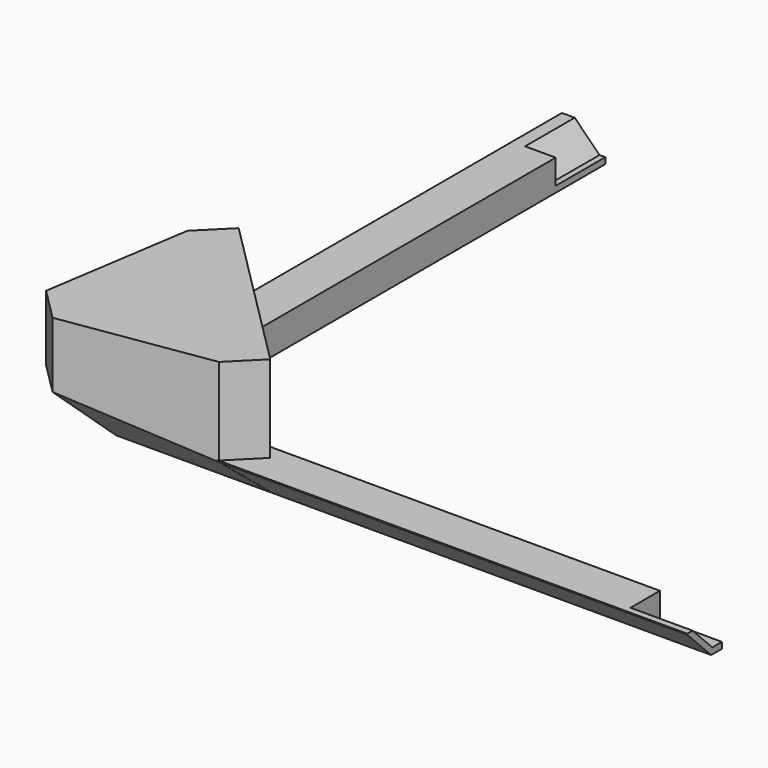
from build123d import *

# Parameters (mm, degrees)
BOX008002003_W               = 32
BOX008002003_H               = 60
BOX008002003_DEPTH           = 19
BOX008002003_PLACEMENT_ANGLE = 45
BOX002_W                     = 10
BOX002_H                     = 10
BOX002_DEPTH                 = 10
CHAMFER002_SIZE              = 5
BOX_W                        = 103
BOX_H                        = 7
BOX_DEPTH                    = 5
CHAMFER_SIZE                 = 4.84
BOX004_W                     = 40
BOX004_H                     = 25
BOX004_DEPTH                 = 55
BOX004_ROLL_ANGLE            = 20
BOX004_PLACEMENT_ANGLE       = -45
BOX003_W                     = 10
BOX003_H                     = 10
BOX003_DEPTH                 = 10
CHAMFER003_SIZE              = 5
BOX001_W                     = 7
BOX001_H                     = 103
BOX001_DEPTH                 = 5
CHAMFER001_SIZE              = 4.84
BOX007_W                     = 36
BOX007_H                     = 26
BOX007_DEPTH                 = 19
BOX007_PLACEMENT_ANGLE       = 315
CHAMFER004_SIZE              = 14.3
CHAMFER004002_SIZE           = 8.45
CHAMFER004003_1_SIZE2        = 20.2
CHAMFER004003_1_SIZE         = 5.2
CHAMFER004003_2_SIZE2        = 20.2
CHAMFER004003_2_SIZE         = 5.2


with BuildPart() as cube010:
    # Box008002003 → Box008002003 (new body)
    with BuildSketch(Plane.XY):
        with Locations((16, 30)):
            Rectangle(BOX008002003_W, BOX008002003_H)
    extrude(amount=BOX008002003_DEPTH)


with BuildPart() as cube010_1:
    # Box008002003 placement: moved
    add(cube010.part.moved(Location((-93.509515, -135.935922, 0))).rotate(Axis((-93.509515, -135.935922, 0), (0, 0, 1)), BOX008002003_PLACEMENT_ANGLE))


with BuildPart() as chamfer002:
    # Box002 → Box002 (new body)
    with BuildSketch(Plane(origin=(-10, -80, 0), x_dir=(1, 0, 0), z_dir=(0, 0, 1))):
        with Locations((5, 5)):
            Rectangle(BOX002_W, BOX002_H)
    extrude(amount=BOX002_DEPTH)

    # Chamfer002
    chamfer002_edges = [chamfer002.edges().sort_by_distance(p)[0] for p in [
        (-5, -80, 0),
    ]]
    chamfer(chamfer002_edges, length=CHAMFER002_SIZE)


with BuildPart() as chamfer002_1:
    # Chamfer002 placement: moved
    add(chamfer002.part.moved(Location((0, -21, 1))))


with BuildPart() as cut:
    # Box → Box (new body)
    with BuildSketch(Plane(origin=(-103, -103, 0), x_dir=(1, 0, 0), z_dir=(0, 0, 1))):
        with Locations((51.5, 3.5)):
            Rectangle(BOX_W, BOX_H)
    extrude(amount=BOX_DEPTH)

    # Chamfer
    chamfer_edges = [cut.edges().sort_by_distance(p)[0] for p in [
        (-51.5, -103, 0),
    ]]
    chamfer(chamfer_edges, length=CHAMFER_SIZE)


with BuildPart() as cut_1:
    # Chamfer placement: moved
    add(cut.part.moved(Location((0, 1.93, 0))))

    # Cut: cut Chamfer002
    add(chamfer002_1.part, mode=Mode.SUBTRACT)


with BuildPart() as box004:
    # Box004 → Box004 (new body)
    with BuildSketch(Plane.XY):
        with Locations((20, 12.5)):
            Rectangle(BOX004_W, BOX004_H)
    extrude(amount=BOX004_DEPTH)


with BuildPart() as box004_1:
    # Box004 roll: moved
    add(box004.part.rotate(Axis((0, 0, 0), (1, 0, 0)), BOX004_ROLL_ANGLE))


with BuildPart() as box004_2:
    # Box004 placement: moved
    add(box004_1.part.moved(Location((-125.987533, -98.117475, -15.593468))).rotate(Axis((-125.987533, -98.117475, -15.593468), (0, 0, 1)), BOX004_PLACEMENT_ANGLE))


with BuildPart() as chamfer003:
    # Box003 → Box003 (new body)
    with BuildSketch(Plane(origin=(-82, -10, 0), x_dir=(1, 0, 0), z_dir=(0, 0, 1))):
        with Locations((5, 5)):
            Rectangle(BOX003_W, BOX003_H)
    extrude(amount=BOX003_DEPTH)

    # Chamfer003
    chamfer003_edges = [chamfer003.edges().sort_by_distance(p)[0] for p in [
        (-82, -5, 0),
    ]]
    chamfer(chamfer003_edges, length=CHAMFER003_SIZE)


with BuildPart() as chamfer003_1:
    # Chamfer003 placement: moved
    add(chamfer003.part.moved(Location((-18, 0, 1))))


with BuildPart() as cut004:
    # Box001 → Box001 (new body)
    with BuildSketch(Plane(origin=(-103, -103, 0), x_dir=(1, 0, 0), z_dir=(0, 0, 1))):
        with Locations((3.5, 51.5)):
            Rectangle(BOX001_W, BOX001_H)
    extrude(amount=BOX001_DEPTH)

    # Chamfer001
    chamfer001_edges = [cut004.edges().sort_by_distance(p)[0] for p in [
        (-103, -51.5, 0),
    ]]
    chamfer(chamfer001_edges, length=CHAMFER001_SIZE)


with BuildPart() as cut004_1:
    # Chamfer001 placement: moved
    add(cut004.part.moved(Location((1.93, 0, 0))))

    # Cut001: cut Chamfer003
    add(chamfer003_1.part, mode=Mode.SUBTRACT)

    # Cut003: cut Box004
    add(box004_2.part, mode=Mode.SUBTRACT)

    # Fusion: union Cut
    add(cut_1.part)

    # Cut004: cut Cube010
    add(cube010_1.part, mode=Mode.SUBTRACT)


with BuildPart() as fusion001:
    # Box007 → Box007 (new body)
    with BuildSketch(Plane.XY):
        with Locations((18, 13)):
            Rectangle(BOX007_W, BOX007_H)
    extrude(amount=BOX007_DEPTH)


with BuildPart() as fusion001_1:
    # Box007 placement: moved
    add(fusion001.part.moved(Location((-114.814642, -89.358798, 0))).rotate(Axis((-114.814642, -89.358798, 0), (0, 0, 1)), BOX007_PLACEMENT_ANGLE))

    # Chamfer004
    chamfer004_edges = [fusion001_1.edges().sort_by_distance(p)[0] for p in [
        (-114.814642, -89.358798, 9.5),
        (-89.358798, -114.814642, 9.5),
    ]]
    chamfer(chamfer004_edges, length=CHAMFER004_SIZE)

    # Chamfer004002
    chamfer004002_edges = [fusion001_1.edges().sort_by_distance(p)[0] for p in [
        (-104.703015, -89.358798, 0),
        (-102.08672, -102.08672, 0),
        (-89.358798, -104.703015, 0),
    ]]
    chamfer(chamfer004002_edges, length=CHAMFER004002_SIZE)

    # Chamfer004003 1
    chamfer004003_1_edges = [fusion001_1.edges().sort_by_distance(p)[0] for p in [
        (-79.247171, -104.703015, 13.725),
    ]]
    chamfer004003_1_side = fusion001_1.faces().sort_by_distance((-74.722231, -100.178076, 11.46253))[0]
    chamfer(chamfer004003_1_edges, length=CHAMFER004003_1_SIZE, length2=CHAMFER004003_1_SIZE2, reference=chamfer004003_1_side)

    # Chamfer004003 2
    chamfer004003_2_edges = [fusion001_1.edges().sort_by_distance(p)[0] for p in [
        (-104.703015, -79.247171, 13.725),
    ]]
    chamfer004003_2_side = fusion001_1.faces().sort_by_distance((-100.178076, -74.722231, 11.46253))[0]
    chamfer(chamfer004003_2_edges, length=CHAMFER004003_2_SIZE, length2=CHAMFER004003_2_SIZE2, reference=chamfer004003_2_side)

    # Fusion001: union Cut004
    add(cut004_1.part)


solid = fusion001_1.part
